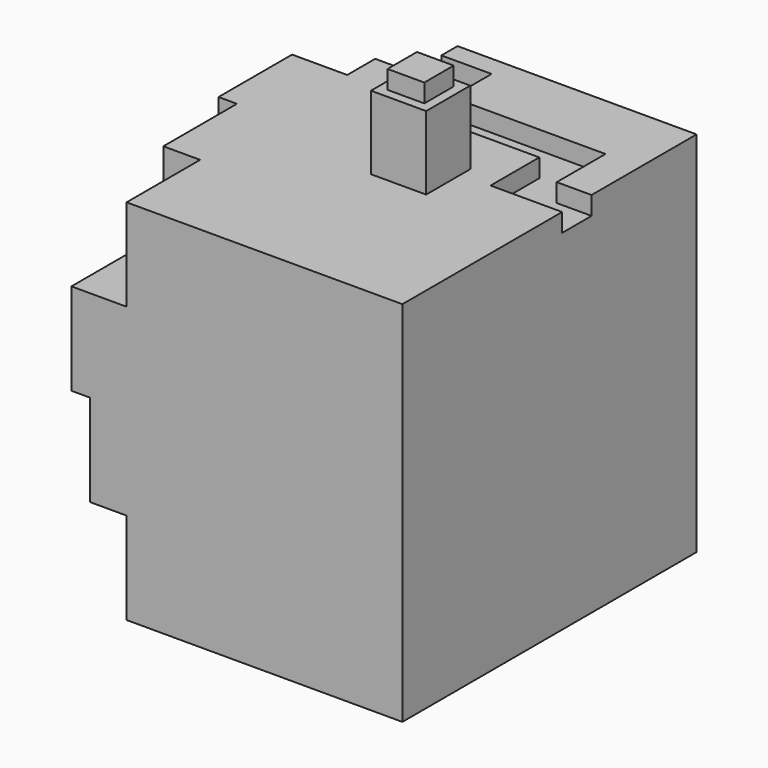
from build123d import *

# Parameters (mm, degrees)
F0_W      = 100
F0_H      = 100
F1_DEPTH  = 100
F2_W      = 25
F2_H      = 25
F3_DEPTH  = 25
F4_DEPTH  = 15
F5_DEPTH  = 10
F6_DEPTH  = 5
F8_DEPTH  = 5
F9_W      = 15
F9_H      = 15
F10_DEPTH = 20
F11_W     = 10
F11_H     = 10
F12_DEPTH = 5


with BuildPart() as f1:
    # F0 (on Top) → F1 (new body)
    with BuildSketch(Plane.XY):
        with Locations((1.3461533941, 0)):
            Rectangle(F0_W, F0_H)
    extrude(amount=F1_DEPTH)

    # F2 (on face) → F3 (cut)
    with BuildSketch(Plane(origin=(-48.6538466059, 0, 0), x_dir=(0, -1, 0), z_dir=(-1, 0, 0))):
        with Locations((-37.5, 87.5)):
            Rectangle(F2_W, F2_H)
        with Locations((-37.5, 12.5)):
            Rectangle(F2_W, F2_H)
        with Locations((37.5, 12.5)):
            Rectangle(F2_W, F2_H)
        with Locations((37.5, 87.5)):
            Rectangle(F2_W, F2_H)
    extrude(amount=-F3_DEPTH, mode=Mode.SUBTRACT)

    # F2 (on face) → F4 (cut)
    with BuildSketch(Plane(origin=(-48.6538466059, 0, 0), x_dir=(0, -1, 0), z_dir=(-1, 0, 0))):
        with Locations((-37.5, 62.5)):
            Rectangle(F2_W, F2_H)
        with Locations((37.5, 37.5)):
            Rectangle(F2_W, F2_H)
        with Locations((12.5, 87.5)):
            Rectangle(F2_W, F2_H)
        with Locations((-12.5, 12.5)):
            Rectangle(F2_W, F2_H)
    extrude(amount=-F4_DEPTH, mode=Mode.SUBTRACT)

    # F2 (on face) → F5 (cut)
    with BuildSketch(Plane(origin=(-48.6538466059, 0, 0), x_dir=(0, -1, 0), z_dir=(-1, 0, 0))):
        with Locations((-12.5, 87.5)):
            Rectangle(F2_W, F2_H)
        with Locations((12.5, 12.5)):
            Rectangle(F2_W, F2_H)
        with Locations((-37.5, 37.5)):
            Rectangle(F2_W, F2_H)
        with Locations((37.5, 62.5)):
            Rectangle(F2_W, F2_H)
    extrude(amount=-F5_DEPTH, mode=Mode.SUBTRACT)

    # F2 (on face) → F6 (cut)
    with BuildSketch(Plane(origin=(-48.6538466059, 0, 0), x_dir=(0, -1, 0), z_dir=(-1, 0, 0))):
        with Locations((12.5, 62.5)):
            Rectangle(F2_W, F2_H)
    extrude(amount=-F6_DEPTH, mode=Mode.SUBTRACT)

    # F7 (on face) → F8 (cut)
    with BuildSketch(Plane.XY.offset(100)):
        Polygon((-13.6538466059, 44.5087721944), (-13.6538466059, 50), (-23.6538466059, 50), (-23.6538466059, 34.5087721944), (-10, 34.5087721944), (-10, 20.8771936595), (31.8771933764, 20.8771936595), (31.8771933764, 4.2982455343), (51.3461533941, 4.2982455343), (51.3461533941, 14.2982455343), (41.8771933764, 14.2982455343), (41.8771933764, 30.8771936595), (0, 30.8771936595), (0, 44.5087721944), align=None)
    extrude(amount=-F8_DEPTH, mode=Mode.SUBTRACT)

    # F9 (on face) → F10 (join)
    with BuildSketch(Plane.XY.offset(100)):
        with Locations((16.3082494724, 0)):
            Rectangle(F9_W, F9_H)
    extrude(amount=F10_DEPTH)

    # F11 (on face) → F12 (join)
    with BuildSketch(Plane.XY.offset(120)):
        with Locations((16.3082494724, 0)):
            Rectangle(F11_W, F11_H)
    extrude(amount=F12_DEPTH)


solid = f1.part
